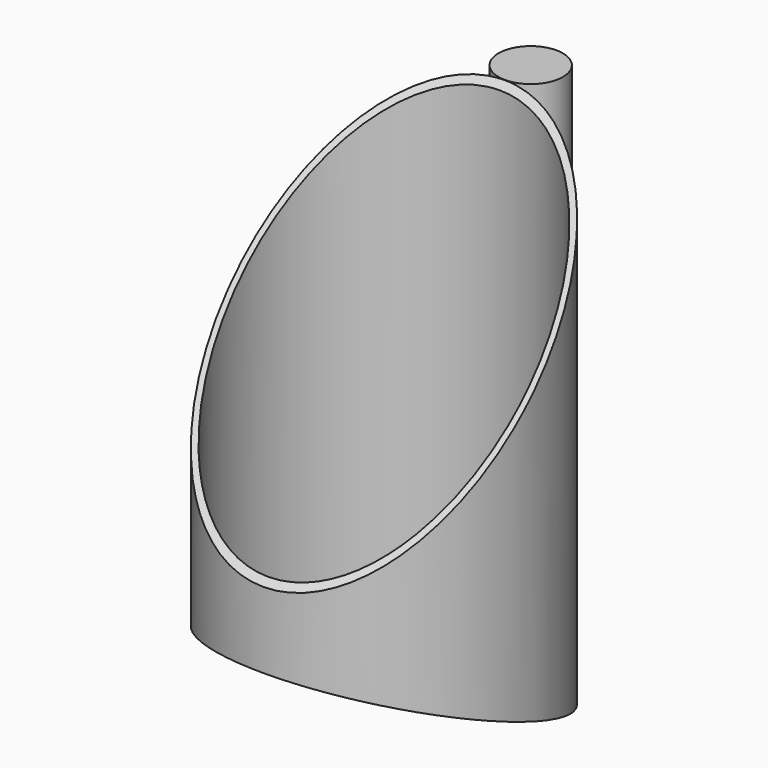
from build123d import *

# Parameters (mm, degrees)
F0_R          = 101.6
F0_R_2        = 97.536
F1_DEPTH      = 342.9
F3_DEPTH      = 101.601
F3_DEPTH_BACK = 101.601
F4_R          = 21.660822
F5_DEPTH      = 342.9


with BuildPart() as f1:
    # F0 (on Top) → F1 (new body)
    with BuildSketch(Plane.XY):
        Circle(F0_R)
        Circle(F0_R_2, mode=Mode.SUBTRACT)
    extrude(amount=F1_DEPTH)

    # F2 (on Right) → F3 (cut, two sides)
    with BuildSketch(Plane.YZ) as f3_sk:
        Polygon((-101.6, 124.994678), (101.6, 342.9), (-101.6, 342.9), align=None)
        Polygon((-101.6, 0), (101.6, 0), (-101.6, 73.958752), align=None)
    extrude(amount=F3_DEPTH, mode=Mode.SUBTRACT)
    extrude(f3_sk.sketch, amount=-F3_DEPTH_BACK, mode=Mode.SUBTRACT)


with BuildPart() as f5:
    # F4 (on Top) → F5 (new body)
    with BuildSketch(Plane.XY):
        with Locations((0, 123.543993)):
            Circle(F4_R)
    extrude(amount=F5_DEPTH)


solid = Compound([f1.part, f5.part])
